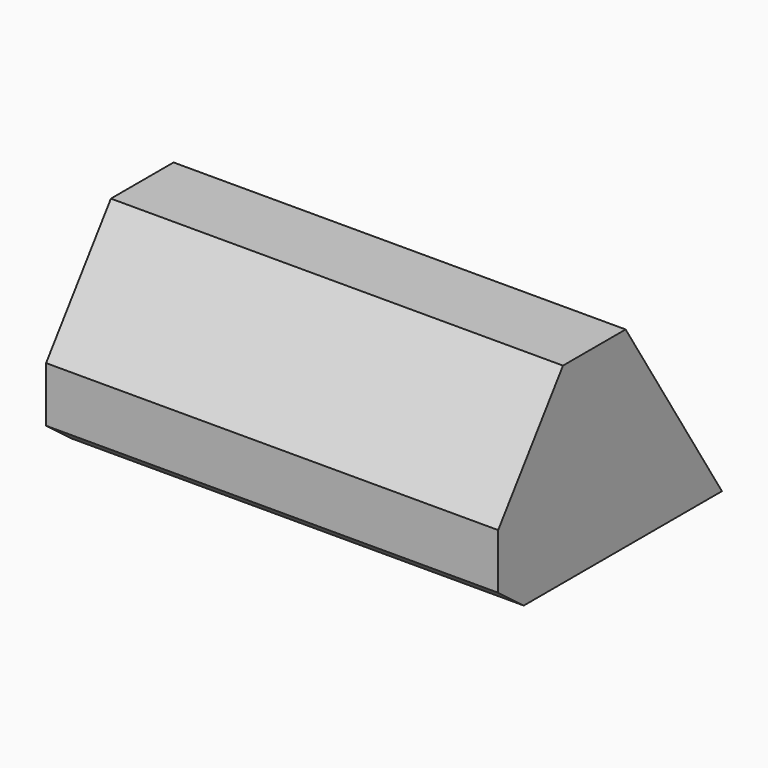
from build123d import *

# Parameters (mm, degrees)
F1_DEPTH = 2400
F2_T     = -2.5


with BuildPart() as f1:
    # F0 (on Right) → F1 (new body)
    with BuildSketch(Plane.YZ):
        Polygon((1054.663021, -663.515762), (415.721765, 352.237196), (0, 352.237196), (-430.056426, -241.650613), (-430.056426, -534.498729), (-260.08166, -663.515762), align=None)
    extrude(amount=F1_DEPTH)

    # F2
    f2_openings = [f1.faces().sort_by_distance(p)[0] for p in [
        (1200, 735.192393, -155.639283),
    ]]
    offset(amount=F2_T, openings=f2_openings)


solid = f1.part
